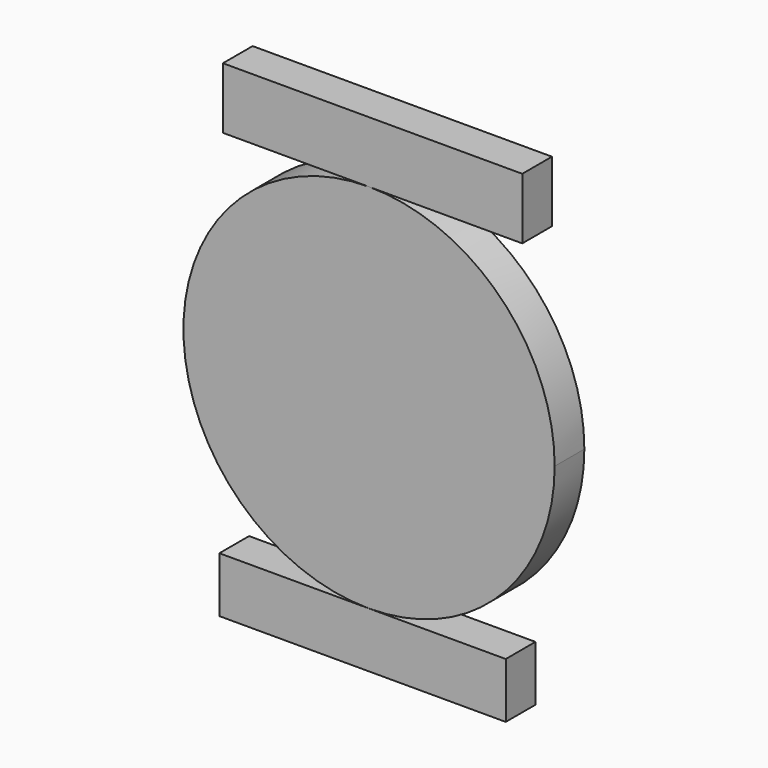
from build123d import *

# Parameters (mm, degrees)
F1_DEPTH = 6.35
F2_DEPTH = 6.35
F3_DEPTH = 6.35


with BuildPart() as f1:
    # F0 (on Front) → F1 (new body)
    with BuildSketch(Plane.XZ):
        with BuildLine():
            ThreePointArc((0, -31.75), (22.45064, -22.45064), (31.75, 0))
            ThreePointArc((31.75, 0), (22.45064, 22.45064), (0, 31.75))
            ThreePointArc((0, 31.75), (-31.75, 0), (0, -31.75))
        make_face()
    extrude(amount=F1_DEPTH)

    # F0 (on Front) → F2 (join)
    with BuildSketch(Plane.XZ):
        Polygon((-24.996826, 31.75), (0, 31.75), (26.206352, 31.75), (26.206352, 42.232539), (-24.996826, 42.232539), align=None)
    extrude(amount=F2_DEPTH)

    # F0 (on Front) → F3 (join)
    with BuildSketch(Plane.XZ):
        Polygon((23.384127, -31.75), (0, -31.75), (-25.601588, -31.75), (-25.601588, -41.224604), (23.384127, -41.224604), align=None)
    extrude(amount=F3_DEPTH)


solid = f1.part
